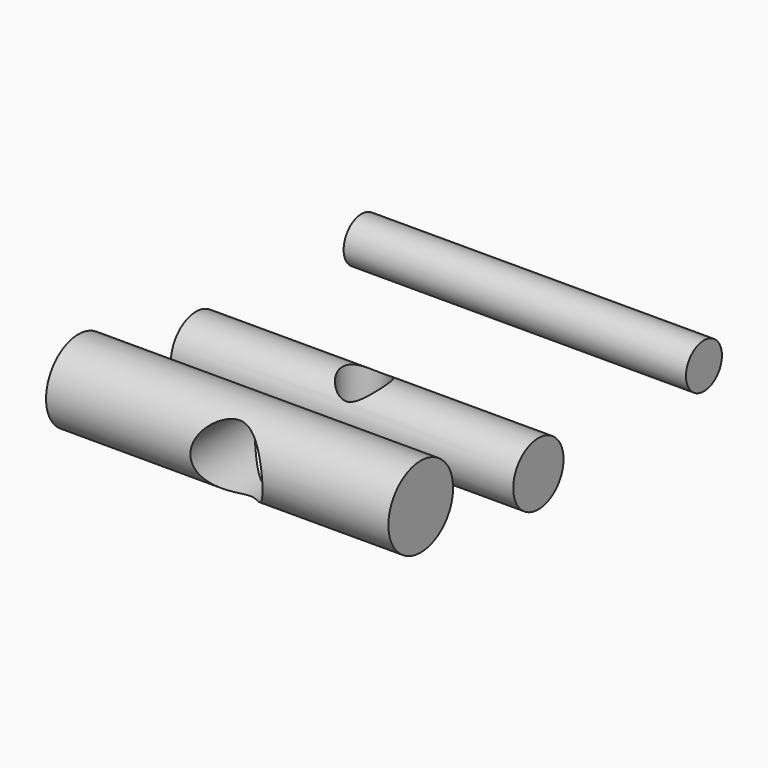
from build123d import *

# Parameters (mm, degrees)
F0_R     = 3.5
F0_R_2   = 2.5
F0_R_3   = 4.5
F1_DEPTH = 38.1
F2_R     = 4
F3_DEPTH = 24.765
F4_R     = 2.54
F5_DEPTH = 32.989409


with BuildPart() as f1:
    # F0 (on Right) → F1 (new body)
    with BuildSketch(Plane.YZ):
        with Locations((32.024205, 25.053635)):
            Circle(F0_R)
        with Locations((55.057388, 26.26591)):
            Circle(F0_R_2)
        with Locations((15.658524, 28.488409)):
            Circle(F0_R_3)
    extrude(amount=F1_DEPTH)

    # F2 (on Front) → F3 (cut)
    with BuildSketch(Plane.XZ):
        with Locations((20.057798, 28.146493)):
            Circle(F2_R)
    extrude(amount=-F3_DEPTH, mode=Mode.SUBTRACT)

    # F4 (on Top) → F5 (cut, through all)
    with BuildSketch(Plane.XY):
        with Locations((18.952941, 31.71625)):
            Circle(F4_R)
    extrude(amount=F5_DEPTH, mode=Mode.SUBTRACT)


solid = f1.part
